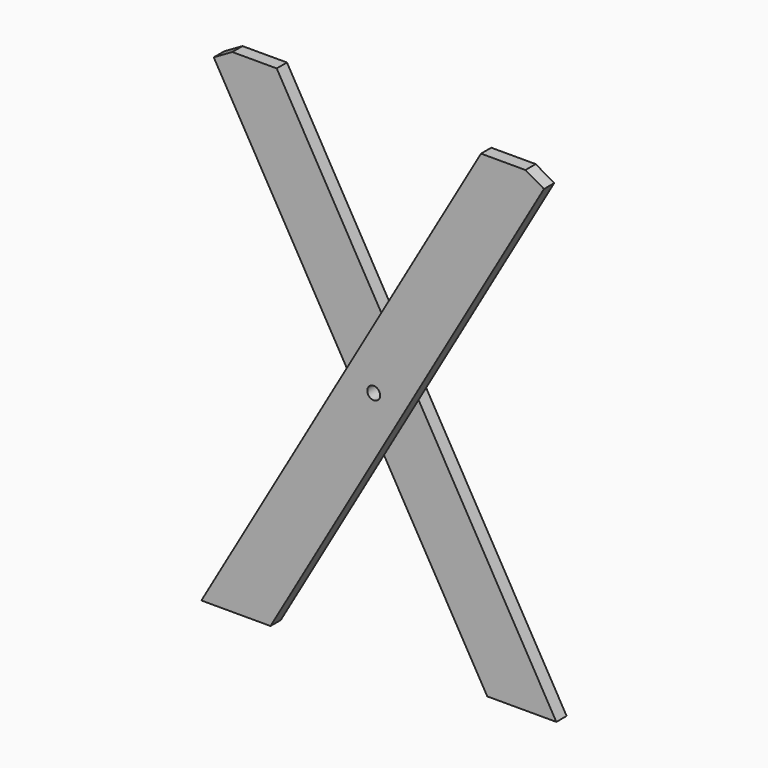
from build123d import *

# Parameters (mm, degrees)
F1_DEPTH = 19.05
F3_D     = 19.05
F5_DEPTH = 19.05


with BuildPart() as f1:
    # F0 (on Front) → F1 (new body)
    with BuildSketch(Plane.XZ):
        Polygon((176.9548937415, 719.3245387082), (-238.3473223164, 0), (-135.6944444544, 0), (270.4423360801, 703.4495387082), (242.9460295099, 719.3245387082), align=None)
    extrude(amount=F1_DEPTH)

    # F3 (through all)
    with Locations(Plane(origin=(0, 0, 0), x_dir=(1, 0, 0), z_dir=(0, 1, 0))):
        with Locations((17.6350068819, -354.4744000111)):
            Hole(F3_D / 2)

    # F4 (on Front) → F5 (join)
    with BuildSketch(Plane.XZ):
        Polygon((170.9644582182, 0), (273.6173360801, 0), (-141.6848799778, 719.3245387082), (-207.6760157462, 719.3245387082), (-235.1723223164, 703.4495387082), align=None)
    extrude(amount=-F5_DEPTH)


solid = f1.part
